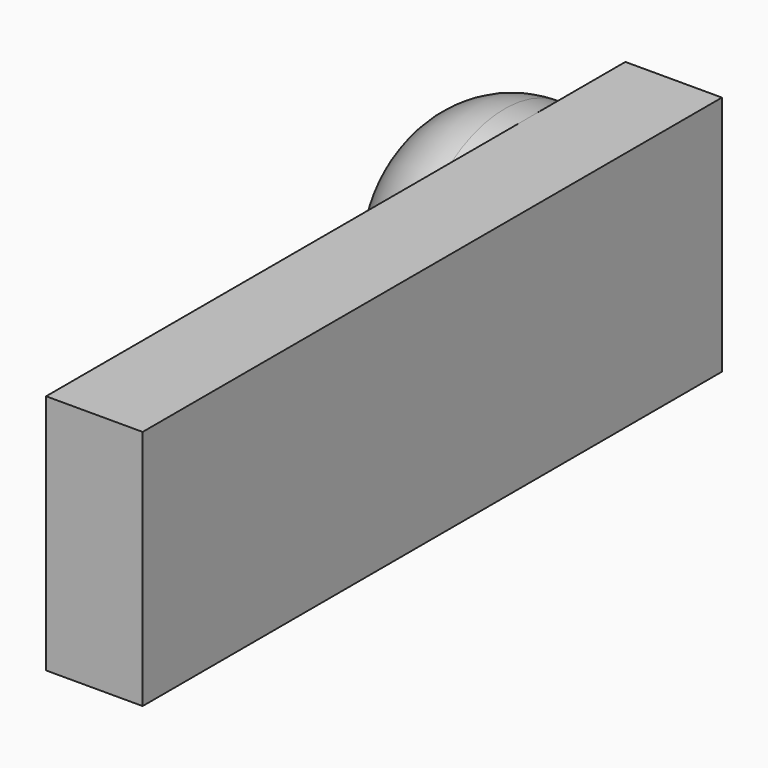
from build123d import *

# Parameters (mm, degrees)
SKETCH019_W             = 6
SKETCH019_H             = 2
PAD002_DEPTH            = 0.8
SKETCH020_R             = 1
PAD003_DEPTH            = 1
FILLET002_R             = 0.8
BODY004_PLACEMENT_ANGLE = 180


with BuildPart() as part:
    # Sketch019 → Pad002 (new body)
    with BuildSketch(Plane(origin=(-3, 16, 14), x_dir=(0, -1, 0), z_dir=(1, 0, 0))):
        with Locations((3, 1)):
            Rectangle(SKETCH019_W, SKETCH019_H)
    extrude(amount=PAD002_DEPTH)

    # Sketch020 (on Face5 of Pad002) → Pad003 (join)
    with BuildSketch(Plane(origin=(-3, 0, 0), x_dir=(0, 1, 0), z_dir=(-1, 0, 0))):
        with Locations((11, -13)):
            Circle(SKETCH020_R)
    extrude(amount=PAD003_DEPTH)

    # Fillet002
    fillet002_edges = [part.edges().sort_by_distance(p)[0] for p in [
        (-4, 10, 13),
    ]]
    fillet(fillet002_edges, radius=FILLET002_R)


with BuildPart() as part_1:
    # Body002 placement: moved
    add(part.part.moved(Location((-16, 0, 0))))


with BuildPart() as part_2:
    # Body004 placement: moved
    add(part_1.part.moved(Location((17.6, 37.3, 20))).rotate(Axis((17.6, 37.3, 20), (1, 0, 0)), BODY004_PLACEMENT_ANGLE))


solid = part_2.part
